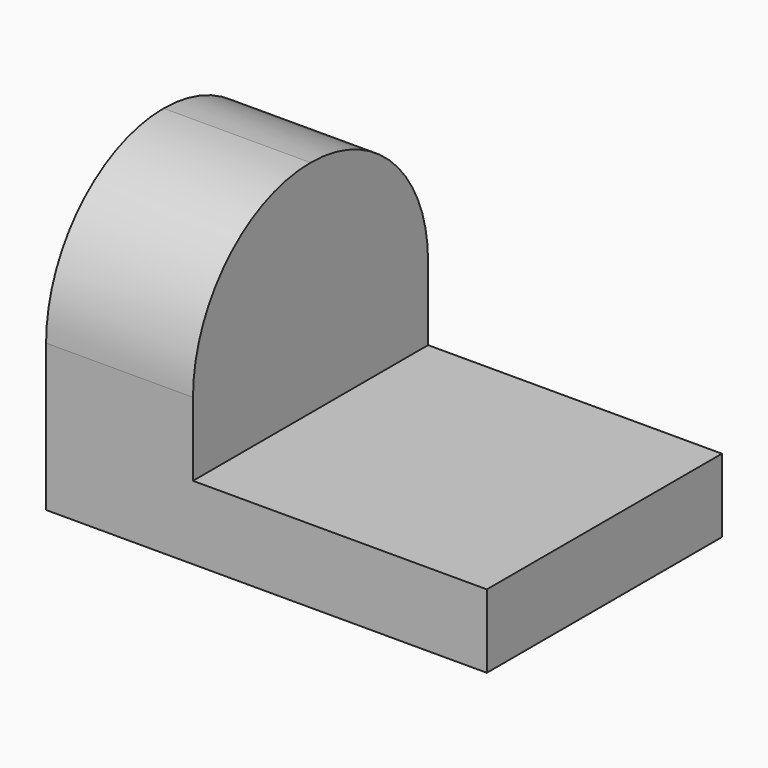
from build123d import *

# Parameters (mm, degrees)
F2_DEPTH = 50.8
F3_DEPTH = 25.4


with BuildPart() as f2:
    # F0 (on Front) → F2 (new body)
    with BuildSketch(Plane.XZ):
        Polygon((0, 50.8), (0, 0), (76.2, 0), (76.2, 12.7), (25.4, 12.7), (25.4, 50.8), align=None)
    extrude(amount=-F2_DEPTH)

    # F1 (on Right) → F3 (cut)
    with BuildSketch(Plane.YZ):
        with BuildLine():
            Line((50.8, 50.8), (25.4, 50.8))
            ThreePointArc((25.4, 50.8), (43.360512, 43.360512), (50.8, 25.4))
            Line((50.8, 25.4), (50.8, 50.8))
        make_face()
        with BuildLine():
            ThreePointArc((0, 25.4), (7.439488, 43.360512), (25.4, 50.8))
            Line((25.4, 50.8), (0, 50.8))
            Line((0, 50.8), (0, 25.4))
        make_face()
    extrude(amount=F3_DEPTH, mode=Mode.SUBTRACT)


solid = f2.part
